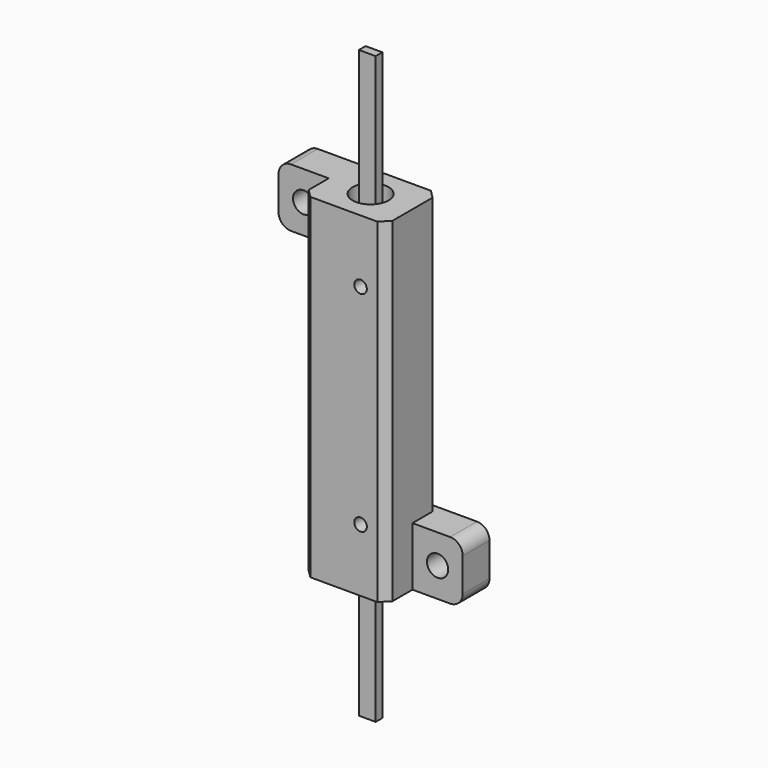
from build123d import *

# Parameters (mm, degrees)
BOX_W                  = 2
BOX_H                  = 1
BOX_DEPTH              = 70
BOX002_W               = 6
BOX002_H               = 1.7
BOX002_DEPTH           = 25
BOX003_W               = 6
BOX003_H               = 1.7
BOX003_DEPTH           = 25
CYLINDER002_R          = 0.75
CYLINDER002_DEPTH      = 20
CYLINDER002_ROLL_ANGLE = 90
CYLINDER001_R          = 0.75
CYLINDER001_DEPTH      = 20
CYLINDER001_ROLL_ANGLE = 90
CYLINDER_R             = 2.15
CYLINDER_DEPTH         = 60
CYLINDER003_R          = 1.27
CYLINDER003_DEPTH      = 20
CYLINDER003_ROLL_ANGLE = 90
CYLINDER004_R          = 1.27
CYLINDER004_DEPTH      = 20
CYLINDER004_ROLL_ANGLE = 90
BOX004_W               = 8
BOX004_H               = 4
BOX004_DEPTH           = 7
BOX001_W               = 10
BOX001_H               = 8
BOX001_DEPTH           = 40
CHAMFER_SIZE           = 1
CHAMFER001_SIZE        = 1
CHAMFER002_SIZE        = 1
CHAMFER003_SIZE        = 1
BOX005_W               = 8
BOX005_H               = 4
BOX005_DEPTH           = 7
FILLET_R               = 1.5
FILLET001_R            = 1.5
FILLET002_R            = 1.5
FILLET003_R            = 1.5


with BuildPart() as cube:
    # Box → Box (new body)
    with BuildSketch(Plane(origin=(-1, -0.5, -35), x_dir=(1, 0, 0), z_dir=(0, 0, 1))):
        with Locations((1, 0.5)):
            Rectangle(BOX_W, BOX_H)
    extrude(amount=BOX_DEPTH)


with BuildPart() as cube002:
    # Box002 → Box002 (new body)
    with BuildSketch(Plane(origin=(-3, -2.2, -14), x_dir=(1, 0, 0), z_dir=(0, 0, 1))):
        with Locations((3, 0.85)):
            Rectangle(BOX002_W, BOX002_H)
    extrude(amount=BOX002_DEPTH)


with BuildPart() as cube003:
    # Box003 → Box003 (new body)
    with BuildSketch(Plane(origin=(-3, 0.5, -11), x_dir=(1, 0, 0), z_dir=(0, 0, 1))):
        with Locations((3, 0.85)):
            Rectangle(BOX003_W, BOX003_H)
    extrude(amount=BOX003_DEPTH)


with BuildPart() as cylinder002:
    # Cylinder002 → Cylinder002 (new body)
    with BuildSketch(Plane.XY):
        Circle(CYLINDER002_R)
    extrude(amount=CYLINDER002_DEPTH)


with BuildPart() as cylinder002_1:
    # Cylinder002 roll: moved
    add(cylinder002.part.rotate(Axis((0, 0, 0), (1, 0, 0)), CYLINDER002_ROLL_ANGLE))


with BuildPart() as cylinder002_2:
    # Cylinder002 placement: moved
    add(cylinder002_1.part.moved(Location((2, 0, -12.5))))


with BuildPart() as cylinder001:
    # Cylinder001 → Cylinder001 (new body)
    with BuildSketch(Plane.XY):
        Circle(CYLINDER001_R)
    extrude(amount=CYLINDER001_DEPTH)


with BuildPart() as cylinder001_1:
    # Cylinder001 roll: moved
    add(cylinder001.part.rotate(Axis((0, 0, 0), (1, 0, 0)), CYLINDER001_ROLL_ANGLE))


with BuildPart() as cylinder001_2:
    # Cylinder001 placement: moved
    add(cylinder001_1.part.moved(Location((2, 0, 12.5))))


with BuildPart() as cylinder:
    # Cylinder → Cylinder (new body)
    with BuildSketch(Plane.XY.offset(-30)):
        Circle(CYLINDER_R)
    extrude(amount=CYLINDER_DEPTH)


with BuildPart() as cylinder003:
    # Cylinder003 → Cylinder003 (new body)
    with BuildSketch(Plane.XY):
        Circle(CYLINDER003_R)
    extrude(amount=CYLINDER003_DEPTH)


with BuildPart() as cylinder003_1:
    # Cylinder003 roll: moved
    add(cylinder003.part.rotate(Axis((0, 0, 0), (1, 0, 0)), CYLINDER003_ROLL_ANGLE))


with BuildPart() as cylinder003_2:
    # Cylinder003 placement: moved
    add(cylinder003_1.part.moved(Location((-8, 9, 16.5))))


with BuildPart() as cylinder004:
    # Cylinder004 → Cylinder004 (new body)
    with BuildSketch(Plane.XY):
        Circle(CYLINDER004_R)
    extrude(amount=CYLINDER004_DEPTH)


with BuildPart() as cylinder004_1:
    # Cylinder004 roll: moved
    add(cylinder004.part.rotate(Axis((0, 0, 0), (1, 0, 0)), CYLINDER004_ROLL_ANGLE))


with BuildPart() as cylinder004_2:
    # Cylinder004 placement: moved
    add(cylinder004_1.part.moved(Location((8, 9, -16.5))))


with BuildPart() as cube004:
    # Box004 → Box004 (new body)
    with BuildSketch(Plane(origin=(3, 0, -20), x_dir=(1, 0, 0), z_dir=(0, 0, 1))):
        with Locations((4, 2)):
            Rectangle(BOX004_W, BOX004_H)
    extrude(amount=BOX004_DEPTH)


with BuildPart() as fusion:
    # Box001 → Box001 (new body)
    with BuildSketch(Plane(origin=(-5, -4, -20), x_dir=(1, 0, 0), z_dir=(0, 0, 1))):
        with Locations((5, 4)):
            Rectangle(BOX001_W, BOX001_H)
    extrude(amount=BOX001_DEPTH)

    # Chamfer
    chamfer_edges = [fusion.edges().sort_by_distance(p)[0] for p in [
        (-5, -4, 0),
    ]]
    chamfer(chamfer_edges, length=CHAMFER_SIZE)

    # Chamfer001
    chamfer001_edges = [fusion.edges().sort_by_distance(p)[0] for p in [
        (5, -4, 0),
    ]]
    chamfer(chamfer001_edges, length=CHAMFER001_SIZE)

    # Chamfer002
    chamfer002_edges = [fusion.edges().sort_by_distance(p)[0] for p in [
        (5, 4, 0),
    ]]
    chamfer(chamfer002_edges, length=CHAMFER002_SIZE)

    # Chamfer003
    chamfer003_edges = [fusion.edges().sort_by_distance(p)[0] for p in [
        (-5, 4, 0),
    ]]
    chamfer(chamfer003_edges, length=CHAMFER003_SIZE)

    # Fusion: union Cube004
    add(cube004.part)


with BuildPart() as cut004:
    # Box005 → Box005 (new body)
    with BuildSketch(Plane(origin=(-11, 0, 13), x_dir=(1, 0, 0), z_dir=(0, 0, 1))):
        with Locations((4, 2)):
            Rectangle(BOX005_W, BOX005_H)
    extrude(amount=BOX005_DEPTH)

    # Fusion001: union Fusion
    add(fusion.part)

    # Cut: cut Cylinder004
    add(cylinder004_2.part, mode=Mode.SUBTRACT)

    # Cut001: cut Cylinder003
    add(cylinder003_2.part, mode=Mode.SUBTRACT)

    # Fillet
    fillet_edges = [cut004.edges().sort_by_distance(p)[0] for p in [
        (-11, 2, 20),
    ]]
    fillet(fillet_edges, radius=FILLET_R)

    # Fillet001
    fillet001_edges = [cut004.edges().sort_by_distance(p)[0] for p in [
        (-11, 2, 13),
    ]]
    fillet(fillet001_edges, radius=FILLET001_R)

    # Fillet002
    fillet002_edges = [cut004.edges().sort_by_distance(p)[0] for p in [
        (11, 2, -20),
    ]]
    fillet(fillet002_edges, radius=FILLET002_R)

    # Fillet003
    fillet003_edges = [cut004.edges().sort_by_distance(p)[0] for p in [
        (11, 2, -13),
    ]]
    fillet(fillet003_edges, radius=FILLET003_R)

    # Cut002: cut Cylinder
    add(cylinder.part, mode=Mode.SUBTRACT)

    # Cut003: cut Cylinder001
    add(cylinder001_2.part, mode=Mode.SUBTRACT)

    # Cut004: cut Cylinder002
    add(cylinder002_2.part, mode=Mode.SUBTRACT)


solid = Compound([cube.part, cube002.part, cube003.part, cut004.part])
